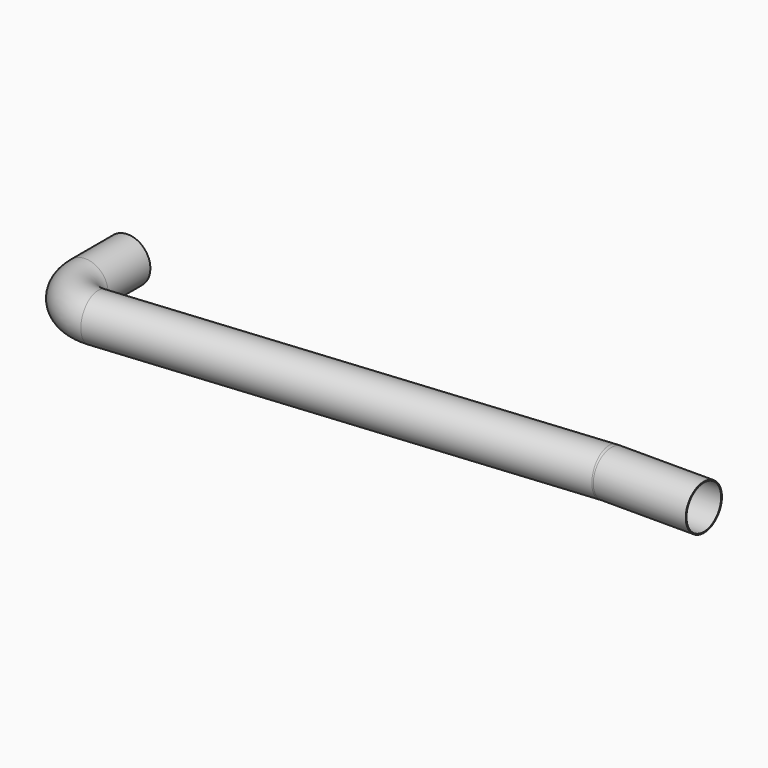
from build123d import *

# Parameters (mm, degrees)
F2_R   = 6
F2_R_2 = 5.75


with BuildPart() as f3:
    # F3: sweep along a path in F0
    with BuildLine(Plane.XY) as f3_path:
        Line((-6, 25), (-6, 10.9844805099))
        ThreePointArc((-6, 10.9844805099), (-0.771082312, -0.8469938627), (11.4979732286, -4.9452425325))
        Line((11.4979732286, -4.9452425325), (137.5946536462, 6.9124307606))
        ThreePointArc((137.5946536462, 6.9124307606), (137.7816943491, 6.9256052759), (137.9691469533, 6.93))
        Line((137.9691469533, 6.93), (162.5, 6.93))
    # F2 (on offset) → F3 (sweep)
    with BuildSketch(Plane.XZ.offset(-25)):
        Circle(F2_R)
        Circle(F2_R_2, mode=Mode.SUBTRACT)
    sweep(path=f3_path.line)


solid = f3.part
